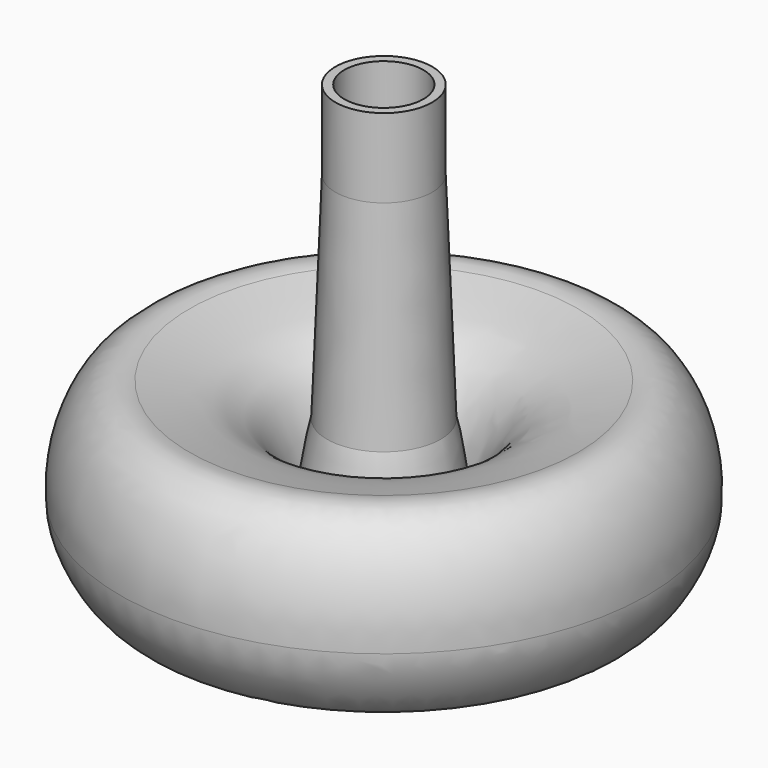
from build123d import *


with BuildPart() as f1:
    # F0 (on Front) → F1 (revolve)
    with BuildSketch(Plane.XZ):
        with BuildLine():
            Line((0, 35.0735469929), (0, 22.225))
            Line((0, 22.225), (1.5875, 22.225))
            Line((1.5875, 22.225), (1.5875, 0))
            Line((1.5875, 0), (6.8395659328, 2.8525609487))
            Line((6.8395659328, 2.8525609487), (6.8395659328, 6.581468042))
            add(Edge.make_bspline(
                [(6.8395659328, 6.581468042), (9.2535042955, 14.5349160115), (26.8148100025, 25.6466174733), (25.1153818248, 14.0338175567), (25.8540902287, 10.7087958604)],
                knots=[0, 0, 0, 0, 0.6010976221, 1, 1, 1, 1], degree=3))
            add(Edge.make_bspline(
                [(25.8540902287, 10.7087958604), (28.8945547553, 10.9060499812), (31.8909995258, 16.7905778438), (31.75, 19.6825712919)],
                knots=[0, 0, 0, 0, 10.7373366123, 10.7373366123, 10.7373366123, 10.7373366123], degree=3))
            add(Edge.make_bspline(
                [(31.75, 19.6825712919), (32.2793722153, 26.0070748627), (28.5891406238, 33.8649395853), (23.4063658863, 32.1263857186)],
                knots=[0, 0, 0, 0, 14.9821476334, 14.9821476334, 14.9821476334, 14.9821476334], degree=3))
            add(Edge.make_bspline(
                [(8.5253027175, 20.0025010854), (11.7796752602, 30.2905943245), (16.0631947219, 30.2905943245), (23.4063658863, 32.1263857186)],
                knots=[0, 0, 0, 0, 19.1946508078, 19.1946508078, 19.1946508078, 19.1946508078], degree=3))
            add(Edge.make_bspline(
                [(6.8395659328, 28.1185149488), (7.526251053, 26.3757562888), (7.526251053, 22.8787242203), (8.5253027175, 20.0025010854)],
                knots=[0, 0, 0, 0, 8.2892333505, 8.2892333505, 8.2892333505, 8.2892333505], degree=3))
            Line((6.8395659328, 28.1185149488), (5.8238464211, 53.975))
            Line((5.8238464211, 53.975), (5.8238464211, 63.5))
            Line((5.8238464211, 63.5), (4.7625, 63.5))
            Line((4.7625, 63.5), (4.7625, 35.0735469929))
            Line((4.7625, 35.0735469929), (0, 35.0735469929))
        make_face()
    revolve(axis=Axis((0, 0, 17.5367734964), (0, 0, -1)))


solid = f1.part
